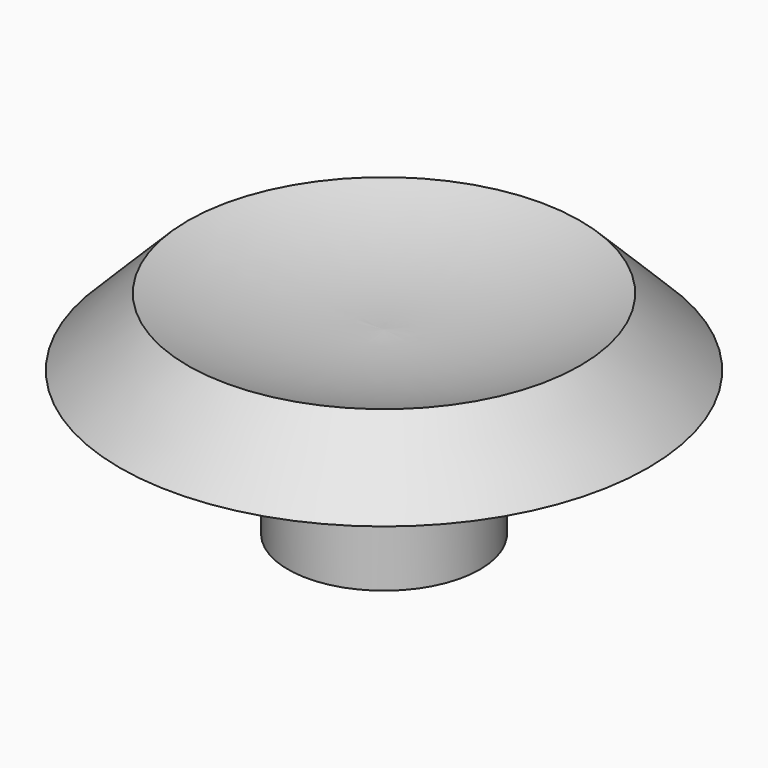
from build123d import *

# Parameters (mm, degrees)
F2_R     = 5.5
F2_R_2   = 4
F3_DEPTH = 1
F2_R_3   = 2
F4_DEPTH = 6
F5_R     = 0.8


with BuildPart() as f1:
    # F0 (on Front) → F1 (revolve)
    with BuildSketch(Plane.XZ):
        with BuildLine():
            Line((-11, 0), (0, 0))
            Line((0, 0), (0, 1.5))
            ThreePointArc((0, 1.5), (-4.154055, 1.744273), (-8.171573, 2.828427))
            Line((-8.171573, 2.828427), (-11, 0))
        make_face()
    revolve(axis=Axis((0, 0, 0.75), (0, 0, 1)))

    # F2 (on face) → F3 (join)
    with BuildSketch(Plane(origin=(0, 0, 0), x_dir=(1, 0, 0), z_dir=(0, 0, -1))):
        Circle(F2_R)
        Circle(F2_R_2, mode=Mode.SUBTRACT)
    extrude(amount=F3_DEPTH)

    # F2 (on face) → F4 (join)
    with BuildSketch(Plane(origin=(0, 0, 0), x_dir=(1, 0, 0), z_dir=(0, 0, -1))):
        Circle(F2_R_2)
        Circle(F2_R_3, mode=Mode.SUBTRACT)
    extrude(amount=F4_DEPTH)

    # F5
    f5_edges = [f1.edges().sort_by_distance(p)[0] for p in [
        (-2, 0, -6),
    ]]
    fillet(f5_edges, radius=F5_R)


solid = f1.part
